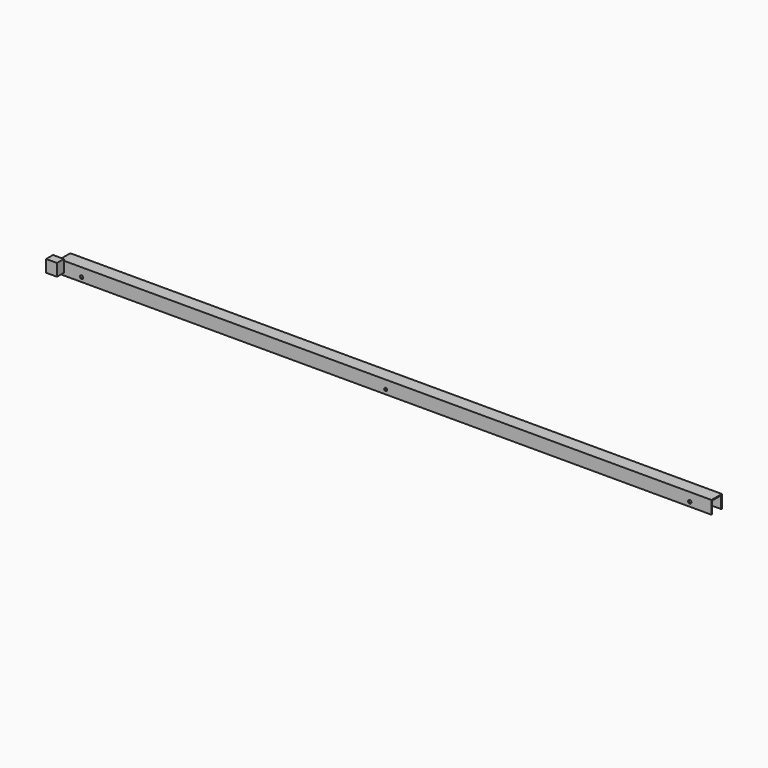
from build123d import *

# Parameters (mm, degrees)
F1_DEPTH  = 3000
F2_R      = 7.5
F3_DEPTH  = 4
F4_R      = 7.5
F5_DEPTH  = 4
F6_R      = 7.5
F7_DEPTH  = 4
F8_R      = 7.5
F9_DEPTH  = 4
F10_R     = 6.736865
F11_DEPTH = 4
F12_R     = 7.5
F13_DEPTH = 4
F14_W     = 40
F14_H     = 56
F15_DEPTH = 50


with BuildPart() as f1:
    # F0 (on Right) → F1 (new body)
    with BuildSketch(Plane.YZ):
        Polygon((60, 0), (0, 0), (0, -60), (4, -60), (4, -4), (56, -4), (56, -60), (60, -60), align=None)
    extrude(amount=F1_DEPTH)

    # F2 (on face) → F3 (cut)
    with BuildSketch(Plane(origin=(0, 60, 0), x_dir=(-1, 0, 0), z_dir=(0, 1, 0))):
        with Locations((-100, -40)):
            Circle(F2_R)
    extrude(amount=-F3_DEPTH, mode=Mode.SUBTRACT)

    # F4 (on face) → F5 (cut)
    with BuildSketch(Plane(origin=(0, 60, 0), x_dir=(-1, 0, 0), z_dir=(0, 1, 0))):
        with Locations((-2900, -40)):
            Circle(F4_R)
    extrude(amount=-F5_DEPTH, mode=Mode.SUBTRACT)

    # F6 (on face) → F7 (cut)
    with BuildSketch(Plane(origin=(0, 60, 0), x_dir=(-1, 0, 0), z_dir=(0, 1, 0))):
        with Locations((-1500, -40)):
            Circle(F6_R)
    extrude(amount=-F7_DEPTH, mode=Mode.SUBTRACT)

    # F8 (on face) → F9 (cut)
    with BuildSketch(Plane.XZ):
        with Locations((100, -40)):
            Circle(F8_R)
    extrude(amount=-F9_DEPTH, mode=Mode.SUBTRACT)

    # F10 (on face) → F11 (cut)
    with BuildSketch(Plane.XZ):
        with Locations((1500, -40)):
            Circle(F10_R)
    extrude(amount=-F11_DEPTH, mode=Mode.SUBTRACT)

    # F12 (on face) → F13 (cut)
    with BuildSketch(Plane.XZ):
        with Locations((2900, -40)):
            Circle(F12_R)
    extrude(amount=-F13_DEPTH, mode=Mode.SUBTRACT)


with BuildPart() as f15:
    # F14 (on Right) → F15 (new body)
    with BuildSketch(Plane.YZ):
        with Locations((-59.364777, 5.406995)):
            Rectangle(F14_W, F14_H)
    extrude(amount=F15_DEPTH)


solid = Compound([f1.part, f15.part])
